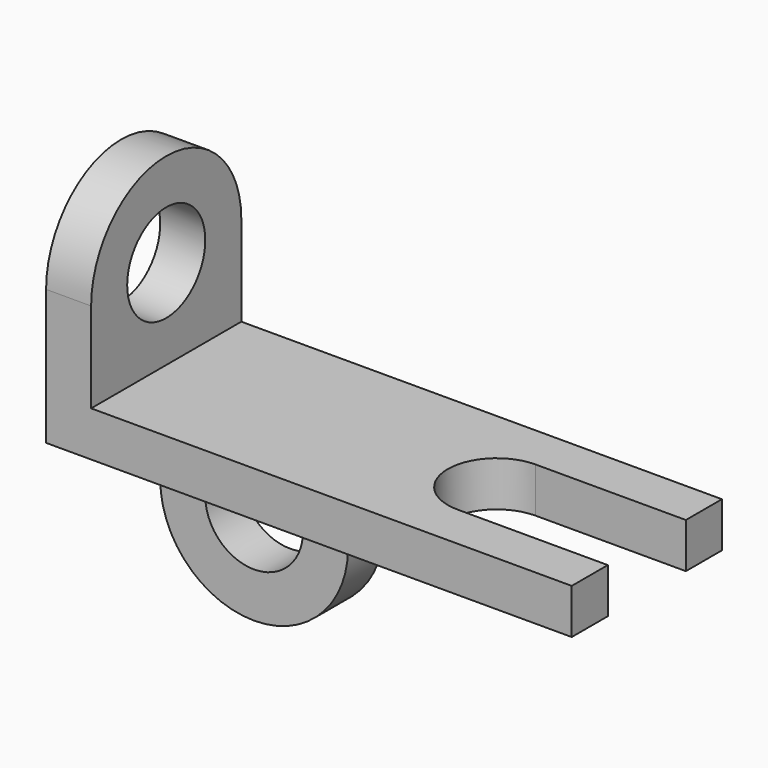
from build123d import *

# Parameters (mm, degrees)
F1_DEPTH = 6
F2_W     = 25
F2_H     = 6
F2_R     = 6.5
F3_DEPTH = 6
F5_DEPTH = 6


with BuildPart() as f1:
    # F0 (on Top) → F1 (new body)
    with BuildSketch(Plane.XY):
        with BuildLine():
            Line((32, 6.5), (32, 12.5))
            Line((32, 12.5), (-32, 12.5))
            Line((-32, 12.5), (-32, -12.5))
            Line((-32, -12.5), (32, -12.5))
            Line((32, -12.5), (32, -6.5))
            Line((32, -6.5), (12, -6.5))
            ThreePointArc((12, -6.5), (5.5, 0), (12, 6.5))
            Line((12, 6.5), (32, 6.5))
        make_face()
    extrude(amount=F1_DEPTH)

    # F2 (on face) → F3 (join)
    with BuildSketch(Plane(origin=(-32, 0, 0), x_dir=(0, -1, 0), z_dir=(-1, 0, 0))):
        with Locations((0, 3)):
            Rectangle(F2_W, F2_H)
        with BuildLine():
            Line((-12.5, 18), (-12.5, 6))
            Line((-12.5, 6), (12.5, 6))
            Line((12.5, 6), (12.5, 18))
            ThreePointArc((12.5, 18), (0, 30.5), (-12.5, 18))
        make_face()
        with Locations((0, 18)):
            Circle(F2_R, mode=Mode.SUBTRACT)
        with Locations((0, 3)):
            Rectangle(F2_W, F2_H)
    extrude(amount=F3_DEPTH)

    # F4 (on face) → F5 (join)
    with BuildSketch(Plane(origin=(0, 12.5, 0), x_dir=(-1, 0, 0), z_dir=(0, 1, 0))):
        with BuildLine():
            Line((38, -12), (38, 6))
            Line((38, 6), (13, 6))
            Line((13, 6), (13, -12))
            ThreePointArc((13, -12), (25.5, 0.5), (38, -12))
        make_face()
        with BuildLine():
            ThreePointArc((13, -12), (25.5, -24.5), (38, -12))
            Line((38, -12), (32, -12))
            ThreePointArc((32, -12), (25.5, -18.5), (19, -12))
            Line((19, -12), (13, -12))
        make_face()
        with BuildLine():
            Line((32, -12), (38, -12))
            ThreePointArc((38, -12), (25.5, 0.5), (13, -12))
            Line((13, -12), (19, -12))
            ThreePointArc((19, -12), (25.5, -5.5), (32, -12))
        make_face()
    extrude(amount=-F5_DEPTH)


solid = f1.part
